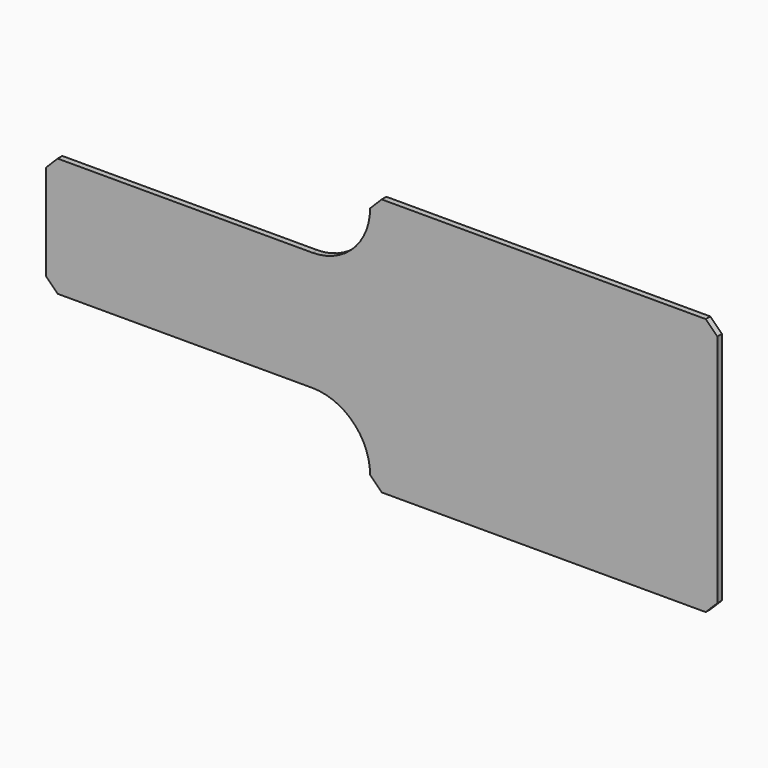
from build123d import *

# Parameters (mm, degrees)
F1_DEPTH = 12.7


with BuildPart() as f1:
    # F0 (on Front) → F1 (new body)
    with BuildSketch(Plane.XZ):
        with BuildLine():
            Line((-25.4, 0), (0, 25.4))
            Line((0, 25.4), (0, 540.721549))
            Line((0, 540.721549), (-25.4, 566.121549))
            Line((-25.4, 566.121549), (-736.6, 566.121549))
            Line((-736.6, 566.121549), (-762, 540.721549))
            ThreePointArc((-762, 540.721549), (-799.197439, 450.918987), (-889, 413.721549))
            Line((-889, 413.721549), (-1447.8, 413.721549))
            Line((-1447.8, 413.721549), (-1473.2, 388.321549))
            Line((-1473.2, 388.321549), (-1473.2, 177.8))
            Line((-1473.2, 177.8), (-1447.8, 152.4))
            Line((-1447.8, 152.4), (-889, 152.4))
            ThreePointArc((-889, 152.4), (-799.197439, 115.202561), (-762, 25.4))
            Line((-762, 25.4), (-736.6, 0))
            Line((-736.6, 0), (-25.4, 0))
        make_face()
    extrude(amount=F1_DEPTH)


solid = f1.part
